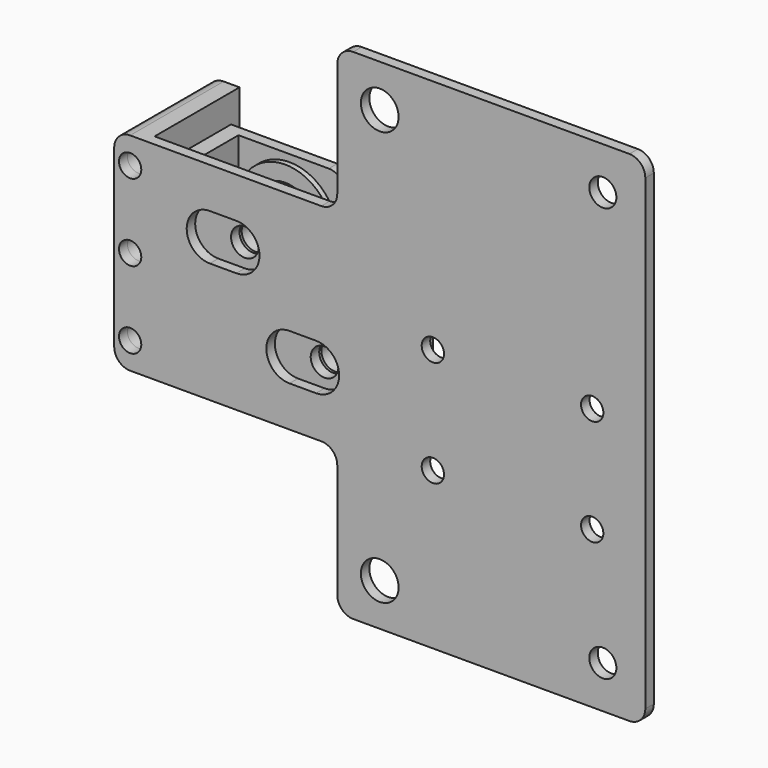
from build123d import *

# Parameters (mm, degrees)
F2_START  = -2.5
F1_R      = 9
F1_R_2    = 6
F1_R_3    = 2.6
F2_DEPTH  = 1
F3_START  = -3.5
F3_DEPTH  = 6
F4_START  = -9.5
F4_DEPTH  = 1
F0_R      = 3.55
F0_R_2    = 2.55
F0_R_3    = 2.1
F5_DEPTH  = 2
F6_DEPTH  = 20
F7_W      = 3
F7_H      = 35
F8_DEPTH  = 13
F7_R      = 2.6
F9_DEPTH  = 2
F10_START = -11
F10_DEPTH = 2


with BuildPart() as f2:
    # F1 (on Front) → F2 (new body)
    with BuildSketch(Plane.XZ.offset(F2_START)):
        with Locations((-48, 15.8924648328)):
            Circle(F1_R)
        with Locations((-48, 15.8924648328)):
            Circle(F1_R_2, mode=Mode.SUBTRACT)
        with Locations((-48, 15.8924648328)):
            Circle(F1_R_2)
        with Locations((-48, 15.8924648328)):
            Circle(F1_R_3, mode=Mode.SUBTRACT)
    extrude(amount=-F2_DEPTH)

    # F1 (on Front) → F3 (join)
    with BuildSketch(Plane.XZ.offset(F3_START)):
        with Locations((-48, 15.8924648328)):
            Circle(F1_R_2)
        with Locations((-48, 15.8924648328)):
            Circle(F1_R_3, mode=Mode.SUBTRACT)
    extrude(amount=-F3_DEPTH)

    # F1 (on Front) → F4 (join)
    with BuildSketch(Plane.XZ.offset(F4_START)):
        with Locations((-48, 15.8924648328)):
            Circle(F1_R)
        with Locations((-48, 15.8924648328)):
            Circle(F1_R_2, mode=Mode.SUBTRACT)
        with Locations((-48, 15.8924648328)):
            Circle(F1_R_2)
        with Locations((-48, 15.8924648328)):
            Circle(F1_R_3, mode=Mode.SUBTRACT)
    extrude(amount=-F4_DEPTH)


with BuildPart() as f2b:
    # F1 (on Front) → F2, piece 2 (new body)
    with BuildSketch(Plane.XZ.offset(F2_START)):
        with Locations((-33, 0.8924648328)):
            Circle(F1_R)
        with Locations((-33, 0.8924648328)):
            Circle(F1_R_2, mode=Mode.SUBTRACT)
        with Locations((-33, 0.8924648328)):
            Circle(F1_R_2)
        with Locations((-33, 0.8924648328)):
            Circle(F1_R_3, mode=Mode.SUBTRACT)
    extrude(amount=-F2_DEPTH)

    # F1 (on Front) → F3, piece 2 (join)
    with BuildSketch(Plane.XZ.offset(F3_START)):
        with Locations((-33, 0.8924648328)):
            Circle(F1_R_2)
        with Locations((-33, 0.8924648328)):
            Circle(F1_R_3, mode=Mode.SUBTRACT)
    extrude(amount=-F3_DEPTH)

    # F1 (on Front) → F4, piece 2 (join)
    with BuildSketch(Plane.XZ.offset(F4_START)):
        with Locations((-33, 0.8924648328)):
            Circle(F1_R)
        with Locations((-33, 0.8924648328)):
            Circle(F1_R_2, mode=Mode.SUBTRACT)
        with Locations((-33, 0.8924648328)):
            Circle(F1_R_2)
        with Locations((-33, 0.8924648328)):
            Circle(F1_R_3, mode=Mode.SUBTRACT)
    extrude(amount=-F4_DEPTH)


with BuildPart() as f5:
    # F0 (on Front) → F5 (new body)
    with BuildSketch(Plane.XZ):
        with BuildLine():
            ThreePointArc((29, 52.3924648328), (28.1213203436, 54.5137851763), (26, 55.3924648328))
            Line((26, 55.3924648328), (-26, 55.3924648328))
            ThreePointArc((-26, 55.3924648328), (-28.1213203436, 54.5137851763), (-29, 52.3924648328))
            Line((-29, 52.3924648328), (-29, 30.8924648328))
            ThreePointArc((-29, 30.8924648328), (-29.8786796564, 28.7711444892), (-32, 27.8924648328))
            Line((-32, 27.8924648328), (-65, 27.8924648328))
            Line((-65, 27.8924648328), (-65, -11.1075351672))
            Line((-65, -11.1075351672), (-32, -11.1075351672))
            ThreePointArc((-32, -11.1075351672), (-29.8786796564, -11.9862148237), (-29, -14.1075351672))
            Line((-29, -14.1075351672), (-29, -35.6075351672))
            ThreePointArc((-29, -35.6075351672), (-28.1213203436, -37.7288555108), (-26, -38.6075351672))
            Line((-26, -38.6075351672), (26, -38.6075351672))
            ThreePointArc((26, -38.6075351672), (28.1213203436, -37.7288555108), (29, -35.6075351672))
            Line((29, -35.6075351672), (29, 52.3924648328))
        make_face()
        with BuildLine():
            ThreePointArc((-38, -3.4575351672), (-42.35, 0.8924648328), (-38, 5.2424648328))
            Line((-38, 5.2424648328), (-33, 5.2424648328))
            ThreePointArc((-33, 5.2424648328), (-28.65, 0.8924648328), (-33, -3.4575351672))
            Line((-33, -3.4575351672), (-38, -3.4575351672))
        make_face(mode=Mode.SUBTRACT)
        with Locations((-21, -30.6075351672)):
            Circle(F0_R, mode=Mode.SUBTRACT)
        with Locations((21, -30.6075351672)):
            Circle(F0_R_2, mode=Mode.SUBTRACT)
        with Locations((-11, -9.1075351672)):
            Circle(F0_R_3, mode=Mode.SUBTRACT)
        with Locations((19, -9.1075351672)):
            Circle(F0_R_3, mode=Mode.SUBTRACT)
        with BuildLine():
            ThreePointArc((-53, 11.5424648328), (-57.35, 15.8924648328), (-53, 20.2424648328))
            Line((-53, 20.2424648328), (-48, 20.2424648328))
            ThreePointArc((-48, 20.2424648328), (-43.65, 15.8924648328), (-48, 11.5424648328))
            Line((-48, 11.5424648328), (-53, 11.5424648328))
        make_face(mode=Mode.SUBTRACT)
        with Locations((-11, 10.8924648328)):
            Circle(F0_R_3, mode=Mode.SUBTRACT)
        with Locations((19, 10.8924648328)):
            Circle(F0_R_3, mode=Mode.SUBTRACT)
        with Locations((-21, 47.3924648328)):
            Circle(F0_R, mode=Mode.SUBTRACT)
        with Locations((21, 47.3924648328)):
            Circle(F0_R_2, mode=Mode.SUBTRACT)
        with BuildLine():
            Line((-65, -11.1075351672), (-65, 27.8924648328))
            Line((-65, 27.8924648328), (-68, 27.8924648328))
            ThreePointArc((-68, 27.8924648328), (-70.1213203436, 27.0137851763), (-71, 24.8924648328))
            Line((-71, 24.8924648328), (-71, -8.1075351672))
            ThreePointArc((-71, -8.1075351672), (-70.1213203436, -10.2288555108), (-68, -11.1075351672))
            Line((-68, -11.1075351672), (-65, -11.1075351672))
        make_face()
        with Locations((-68, -6.1075351672)):
            Circle(F0_R_3, mode=Mode.SUBTRACT)
        with Locations((-68, 8.3924648328)):
            Circle(F0_R_3, mode=Mode.SUBTRACT)
        with Locations((-68, 22.8924648328)):
            Circle(F0_R_3, mode=Mode.SUBTRACT)
    extrude(amount=F5_DEPTH)

    # F0 (on Front) → F6 (join)
    with BuildSketch(Plane.XZ):
        with BuildLine():
            Line((-65, -11.1075351672), (-65, 27.8924648328))
            Line((-65, 27.8924648328), (-68, 27.8924648328))
            ThreePointArc((-68, 27.8924648328), (-70.1213203436, 27.0137851763), (-71, 24.8924648328))
            Line((-71, 24.8924648328), (-71, -8.1075351672))
            ThreePointArc((-71, -8.1075351672), (-70.1213203436, -10.2288555108), (-68, -11.1075351672))
            Line((-68, -11.1075351672), (-65, -11.1075351672))
        make_face()
        with Locations((-68, -6.1075351672)):
            Circle(F0_R_3, mode=Mode.SUBTRACT)
        with Locations((-68, 8.3924648328)):
            Circle(F0_R_3, mode=Mode.SUBTRACT)
        with Locations((-68, 22.8924648328)):
            Circle(F0_R_3, mode=Mode.SUBTRACT)
    extrude(amount=-F6_DEPTH)


with BuildPart() as f8:
    # F7 (on Front) → F8 (new body)
    with BuildSketch(Plane.XZ):
        with Locations((-59.5, 8.3924648328)):
            Rectangle(F7_W, F7_H)
    extrude(amount=-F8_DEPTH)

    # F7 (on Front) → F9 (join)
    with BuildSketch(Plane.XZ):
        with BuildLine():
            Line((-41, 25.8924648328), (-58, 25.8924648328))
            Line((-58, 25.8924648328), (-58, -9.1075351672))
            Line((-58, -9.1075351672), (-26, -9.1075351672))
            ThreePointArc((-26, -9.1075351672), (-23.8786796564, -8.2288555108), (-23, -6.1075351672))
            Line((-23, -6.1075351672), (-23, 7.8924648328))
            ThreePointArc((-23, 7.8924648328), (-23.8786796564, 10.0137851763), (-26, 10.8924648328))
            Line((-26, 10.8924648328), (-35, 10.8924648328))
            ThreePointArc((-35, 10.8924648328), (-37.1213203436, 11.7711444892), (-38, 13.8924648328))
            Line((-38, 13.8924648328), (-38, 22.8924648328))
            ThreePointArc((-38, 22.8924648328), (-38.8786796564, 25.0137851763), (-41, 25.8924648328))
        make_face()
        with Locations((-33, 0.8924648328)):
            Circle(F7_R, mode=Mode.SUBTRACT)
        with Locations((-48, 15.8924648328)):
            Circle(F7_R, mode=Mode.SUBTRACT)
        with Locations((-59.5, 8.3924648328)):
            Rectangle(F7_W, F7_H)
    extrude(amount=-F9_DEPTH)

    # F7 (on Front) → F10 (join)
    with BuildSketch(Plane.XZ.offset(F10_START)):
        with BuildLine():
            Line((-41, 25.8924648328), (-58, 25.8924648328))
            Line((-58, 25.8924648328), (-58, -9.1075351672))
            Line((-58, -9.1075351672), (-26, -9.1075351672))
            ThreePointArc((-26, -9.1075351672), (-23.8786796564, -8.2288555108), (-23, -6.1075351672))
            Line((-23, -6.1075351672), (-23, 7.8924648328))
            ThreePointArc((-23, 7.8924648328), (-23.8786796564, 10.0137851763), (-26, 10.8924648328))
            Line((-26, 10.8924648328), (-35, 10.8924648328))
            ThreePointArc((-35, 10.8924648328), (-37.1213203436, 11.7711444892), (-38, 13.8924648328))
            Line((-38, 13.8924648328), (-38, 22.8924648328))
            ThreePointArc((-38, 22.8924648328), (-38.8786796564, 25.0137851763), (-41, 25.8924648328))
        make_face()
        with Locations((-33, 0.8924648328)):
            Circle(F7_R, mode=Mode.SUBTRACT)
        with Locations((-48, 15.8924648328)):
            Circle(F7_R, mode=Mode.SUBTRACT)
        with Locations((-59.5, 8.3924648328)):
            Rectangle(F7_W, F7_H)
    extrude(amount=-F10_DEPTH)


solid = Compound([f2.part, f2b.part, f5.part, f8.part])
